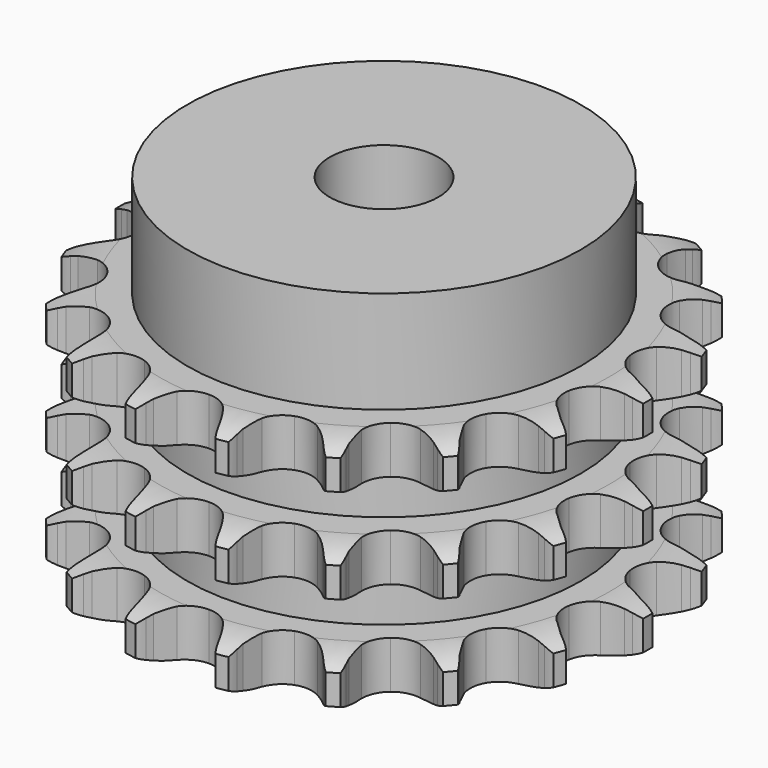
from build123d import *

# Parameters (mm, degrees)
PAD_DEPTH         = 34.9
SKETCH001_R       = 29
PAD001_DEPTH      = 50
SKETCH002_R       = 8
POCKET_DEPTH      = 0.001
POCKET_DEPTH_BACK = 50.001


with BuildPart() as part:
    # Sprocket → Pad (new body)
    with BuildSketch(Plane.XY):
        with BuildLine():
            ThreePointArc((-7.003796, 39.720502), (-6.007744, 38.60389), (-5.269995, 37.302094))
            Line((-5.269995, 37.302094), (-4.86388, 36.365611))
            ThreePointArc((-4.86388, 36.365611), (-4.204525, 35.080808), (-3.384263, 33.892264))
            ThreePointArc((-3.384263, 33.892264), (-1.88001, 32.684973), (0, 32.253818))
            ThreePointArc((0, 32.253818), (1.88001, 32.684973), (3.384263, 33.892264))
            ThreePointArc((3.384263, 33.892264), (4.204525, 35.080808), (4.86388, 36.365611))
            Line((4.86388, 36.365611), (5.269995, 37.302094))
            ThreePointArc((5.269995, 37.302094), (6.007744, 38.60389), (7.003796, 39.720502))
            ThreePointArc((7.003796, 39.720502), (7.557875, 38.33056), (7.805892, 36.854947))
            Line((7.805892, 36.854947), (7.86722, 35.836041))
            ThreePointArc((7.86722, 35.836041), (8.047382, 34.403209), (8.41167, 33.005797))
            ThreePointArc((8.41167, 33.005797), (9.412288, 31.356829), (11.031455, 30.308674))
            ThreePointArc((11.031455, 30.308674), (12.94555, 30.070827), (14.772004, 30.690824))
            Line((14.772004, 30.690824), (17.008323, 32.508952))
            ThreePointArc((17.008323, 32.508952), (17.350777, 32.887562), (17.710243, 33.250058))
            ThreePointArc((17.710243, 33.250058), (18.84874, 34.221021), (20.166628, 34.929624))
            ThreePointArc((20.166628, 34.929624), (20.211903, 33.433998), (19.940274, 31.962549))
            Line((19.940274, 31.962549), (19.649416, 30.984116))
            ThreePointArc((19.649416, 30.984116), (19.328656, 29.576075), (19.193031, 28.138343))
            ThreePointArc((19.193031, 28.138343), (19.569325, 26.246589), (20.732354, 24.707858))
            ThreePointArc((20.732354, 24.707858), (22.449667, 23.829695), (24.378024, 23.787618))
            Line((24.378024, 23.787618), (27.101312, 24.731233))
            ThreePointArc((27.101312, 24.731233), (27.552606, 24.969884), (28.014374, 25.187575))
            ThreePointArc((28.014374, 25.187575), (29.416301, 25.710592), (30.897066, 25.925717))
            ThreePointArc((30.897066, 25.925717), (30.428077, 24.504804), (29.669564, 23.214997))
            Line((29.669564, 23.214997), (29.061603, 22.395049))
            ThreePointArc((29.061603, 22.395049), (28.278609, 21.18163), (27.65943, 19.87699))
            ThreePointArc((27.65943, 19.87699), (27.366012, 17.970623), (27.932625, 16.126909))
            ThreePointArc((27.932625, 16.126909), (29.246022, 14.71435), (31.043693, 14.015274))
            Line((31.043693, 14.015274), (33.925483, 13.970562))
            ThreePointArc((33.925483, 13.970562), (34.431183, 14.040469), (34.939559, 14.087098))
            ThreePointArc((34.939559, 14.087098), (36.435821, 14.099086), (37.900862, 13.794786))
            ThreePointArc((37.900862, 13.794786), (36.974176, 12.619968), (35.820267, 11.667372))
            Line((35.820267, 11.667372), (34.968532, 11.104809))
            ThreePointArc((34.968532, 11.104809), (33.817744, 10.232368), (32.789693, 9.218179))
            ThreePointArc((32.789693, 9.218179), (31.861954, 7.527134), (31.76381, 5.600817))
            ThreePointArc((31.76381, 5.600817), (32.514875, 3.824238), (33.965036, 2.552481))
            Line((33.965036, 2.552481), (36.65774, 1.524836))
            ThreePointArc((36.65774, 1.524836), (37.156852, 1.417567), (37.650517, 1.287509))
            ThreePointArc((37.650517, 1.287509), (39.060644, 0.787023), (40.333255, 0))
            ThreePointArc((40.333255, 0), (39.060644, -0.787023), (37.650517, -1.287509))
            Line((37.650517, -1.287509), (36.65774, -1.524836))
            ThreePointArc((36.65774, -1.524836), (35.27796, -1.951069), (33.965036, -2.552481))
            ThreePointArc((33.965036, -2.552481), (32.514875, -3.824238), (31.76381, -5.600817))
            ThreePointArc((31.76381, -5.600817), (31.861954, -7.527134), (32.789693, -9.218179))
            Line((32.789693, -9.218179), (34.968532, -11.104809))
            ThreePointArc((34.968532, -11.104809), (35.400856, -11.376314), (35.820267, -11.667372))
            ThreePointArc((35.820267, -11.667372), (36.974176, -12.619968), (37.900862, -13.794786))
            ThreePointArc((37.900862, -13.794786), (36.435821, -14.099086), (34.939559, -14.087098))
            Line((34.939559, -14.087098), (33.925483, -13.970562))
            ThreePointArc((33.925483, -13.970562), (32.483134, -13.899178), (31.043693, -14.015274))
            ThreePointArc((31.043693, -14.015274), (29.246022, -14.71435), (27.932625, -16.126909))
            ThreePointArc((27.932625, -16.126909), (27.366012, -17.970623), (27.65943, -19.87699))
            Line((27.65943, -19.87699), (29.061603, -22.395049))
            ThreePointArc((29.061603, -22.395049), (29.374995, -22.798045), (29.669564, -23.214997))
            ThreePointArc((29.669564, -23.214997), (30.428077, -24.504804), (30.897066, -25.925717))
            ThreePointArc((30.897066, -25.925717), (29.416301, -25.710592), (28.014374, -25.187575))
            Line((28.014374, -25.187575), (27.101312, -24.731233))
            ThreePointArc((27.101312, -24.731233), (25.770362, -24.170841), (24.378024, -23.787618))
            ThreePointArc((24.378024, -23.787618), (22.449667, -23.829695), (20.732354, -24.707858))
            ThreePointArc((20.732354, -24.707858), (19.569325, -26.246589), (19.193031, -28.138343))
            Line((19.193031, -28.138343), (19.649416, -30.984116))
            ThreePointArc((19.649416, -30.984116), (19.806075, -31.469994), (19.940274, -31.962549))
            ThreePointArc((19.940274, -31.962549), (20.211903, -33.433998), (20.166628, -34.929624))
            ThreePointArc((20.166628, -34.929624), (18.84874, -34.221021), (17.710243, -33.250058))
            Line((17.710243, -33.250058), (17.008323, -32.508952))
            ThreePointArc((17.008323, -32.508952), (15.949304, -31.527144), (14.772004, -30.690824))
            ThreePointArc((14.772004, -30.690824), (12.94555, -30.070827), (11.031455, -30.308674))
            ThreePointArc((11.031455, -30.308674), (9.412288, -31.356829), (8.41167, -33.005797))
            Line((8.41167, -33.005797), (7.86722, -35.836041))
            ThreePointArc((7.86722, -35.836041), (7.848251, -36.346198), (7.805892, -36.854947))
            ThreePointArc((7.805892, -36.854947), (7.557875, -38.33056), (7.003796, -39.720502))
            ThreePointArc((7.003796, -39.720502), (6.007744, -38.60389), (5.269995, -37.302094))
            Line((5.269995, -37.302094), (4.86388, -36.365611))
            ThreePointArc((4.86388, -36.365611), (4.204525, -35.080808), (3.384263, -33.892264))
            ThreePointArc((3.384263, -33.892264), (1.88001, -32.684973), (0, -32.253818))
            ThreePointArc((0, -32.253818), (-1.88001, -32.684973), (-3.384263, -33.892264))
            Line((-3.384263, -33.892264), (-4.86388, -36.365611))
            ThreePointArc((-4.86388, -36.365611), (-5.056188, -36.838514), (-5.269995, -37.302094))
            ThreePointArc((-5.269995, -37.302094), (-6.007744, -38.60389), (-7.003796, -39.720502))
            ThreePointArc((-7.003796, -39.720502), (-7.557875, -38.33056), (-7.805892, -36.854947))
            Line((-7.805892, -36.854947), (-7.86722, -35.836041))
            ThreePointArc((-7.86722, -35.836041), (-8.047382, -34.403209), (-8.41167, -33.005797))
            ThreePointArc((-8.41167, -33.005797), (-9.412288, -31.356829), (-11.031455, -30.308674))
            ThreePointArc((-11.031455, -30.308674), (-12.94555, -30.070827), (-14.772004, -30.690824))
            Line((-14.772004, -30.690824), (-17.008323, -32.508952))
            ThreePointArc((-17.008323, -32.508952), (-17.350777, -32.887562), (-17.710243, -33.250058))
            ThreePointArc((-17.710243, -33.250058), (-18.84874, -34.221021), (-20.166628, -34.929624))
            ThreePointArc((-20.166628, -34.929624), (-20.211903, -33.433998), (-19.940274, -31.962549))
            Line((-19.940274, -31.962549), (-19.649416, -30.984116))
            ThreePointArc((-19.649416, -30.984116), (-19.328656, -29.576075), (-19.193031, -28.138343))
            ThreePointArc((-19.193031, -28.138343), (-19.569325, -26.246589), (-20.732354, -24.707858))
            ThreePointArc((-20.732354, -24.707858), (-22.449667, -23.829695), (-24.378024, -23.787618))
            Line((-24.378024, -23.787618), (-27.101312, -24.731233))
            ThreePointArc((-27.101312, -24.731233), (-27.552606, -24.969884), (-28.014374, -25.187575))
            ThreePointArc((-28.014374, -25.187575), (-29.416301, -25.710592), (-30.897066, -25.925717))
            ThreePointArc((-30.897066, -25.925717), (-30.428077, -24.504804), (-29.669564, -23.214997))
            Line((-29.669564, -23.214997), (-29.061603, -22.395049))
            ThreePointArc((-29.061603, -22.395049), (-28.278609, -21.18163), (-27.65943, -19.87699))
            ThreePointArc((-27.65943, -19.87699), (-27.366012, -17.970623), (-27.932625, -16.126909))
            ThreePointArc((-27.932625, -16.126909), (-29.246022, -14.71435), (-31.043693, -14.015274))
            Line((-31.043693, -14.015274), (-33.925483, -13.970562))
            ThreePointArc((-33.925483, -13.970562), (-34.431183, -14.040469), (-34.939559, -14.087098))
            ThreePointArc((-34.939559, -14.087098), (-36.435821, -14.099086), (-37.900862, -13.794786))
            ThreePointArc((-37.900862, -13.794786), (-36.974176, -12.619968), (-35.820267, -11.667372))
            Line((-35.820267, -11.667372), (-34.968532, -11.104809))
            ThreePointArc((-34.968532, -11.104809), (-33.817744, -10.232368), (-32.789693, -9.218179))
            ThreePointArc((-32.789693, -9.218179), (-31.861954, -7.527134), (-31.76381, -5.600817))
            ThreePointArc((-31.76381, -5.600817), (-32.514875, -3.824238), (-33.965036, -2.552481))
            Line((-33.965036, -2.552481), (-36.65774, -1.524836))
            ThreePointArc((-36.65774, -1.524836), (-37.156852, -1.417567), (-37.650517, -1.287509))
            ThreePointArc((-37.650517, -1.287509), (-39.060644, -0.787023), (-40.333255, 0))
            ThreePointArc((-40.333255, 0), (-39.060644, 0.787023), (-37.650517, 1.287509))
            Line((-37.650517, 1.287509), (-36.65774, 1.524836))
            ThreePointArc((-36.65774, 1.524836), (-35.27796, 1.951069), (-33.965036, 2.552481))
            ThreePointArc((-33.965036, 2.552481), (-32.514875, 3.824238), (-31.76381, 5.600817))
            ThreePointArc((-31.76381, 5.600817), (-31.861954, 7.527134), (-32.789693, 9.218179))
            Line((-32.789693, 9.218179), (-34.968532, 11.104809))
            ThreePointArc((-34.968532, 11.104809), (-35.400856, 11.376314), (-35.820267, 11.667372))
            ThreePointArc((-35.820267, 11.667372), (-36.974176, 12.619968), (-37.900862, 13.794786))
            ThreePointArc((-37.900862, 13.794786), (-36.435821, 14.099086), (-34.939559, 14.087098))
            Line((-34.939559, 14.087098), (-33.925483, 13.970562))
            ThreePointArc((-33.925483, 13.970562), (-32.483134, 13.899178), (-31.043693, 14.015274))
            ThreePointArc((-31.043693, 14.015274), (-29.246022, 14.71435), (-27.932625, 16.126909))
            ThreePointArc((-27.932625, 16.126909), (-27.366012, 17.970623), (-27.65943, 19.87699))
            Line((-27.65943, 19.87699), (-29.061603, 22.395049))
            ThreePointArc((-29.061603, 22.395049), (-29.374995, 22.798045), (-29.669564, 23.214997))
            ThreePointArc((-29.669564, 23.214997), (-30.428077, 24.504804), (-30.897066, 25.925717))
            ThreePointArc((-30.897066, 25.925717), (-29.416301, 25.710592), (-28.014374, 25.187575))
            Line((-28.014374, 25.187575), (-27.101312, 24.731233))
            ThreePointArc((-27.101312, 24.731233), (-25.770362, 24.170841), (-24.378024, 23.787618))
            ThreePointArc((-24.378024, 23.787618), (-22.449667, 23.829695), (-20.732354, 24.707858))
            ThreePointArc((-20.732354, 24.707858), (-19.569325, 26.246589), (-19.193031, 28.138343))
            Line((-19.193031, 28.138343), (-19.649416, 30.984116))
            ThreePointArc((-19.649416, 30.984116), (-19.806075, 31.469994), (-19.940274, 31.962549))
            ThreePointArc((-19.940274, 31.962549), (-20.211903, 33.433998), (-20.166628, 34.929624))
            ThreePointArc((-20.166628, 34.929624), (-18.84874, 34.221021), (-17.710243, 33.250058))
            Line((-17.710243, 33.250058), (-17.008323, 32.508952))
            ThreePointArc((-17.008323, 32.508952), (-15.949304, 31.527144), (-14.772004, 30.690824))
            ThreePointArc((-14.772004, 30.690824), (-12.94555, 30.070827), (-11.031455, 30.308674))
            ThreePointArc((-11.031455, 30.308674), (-9.412288, 31.356829), (-8.41167, 33.005797))
            Line((-8.41167, 33.005797), (-7.86722, 35.836041))
            ThreePointArc((-7.86722, 35.836041), (-7.848251, 36.346198), (-7.805892, 36.854947))
            ThreePointArc((-7.805892, 36.854947), (-7.557875, 38.33056), (-7.003796, 39.720502))
        make_face()
    extrude(amount=PAD_DEPTH)

    # Sketch → Groove (revolve, cut)
    with BuildSketch(Plane.XZ):
        with BuildLine():
            ThreePointArc((33.233431, 0), (36.14032, 0.329167), (38.9, 1.3))
            Line((38.9, 1.3), (38.9, 5.7))
            ThreePointArc((38.9, 5.7), (36.14032, 6.670833), (33.233431, 7))
            Line((29, 7), (33.233431, 7))
            Line((29, 7), (29, 13.95))
            Line((29, 13.95), (33.233431, 13.95))
            ThreePointArc((33.233431, 13.95), (36.14032, 14.279167), (38.9, 15.25))
            Line((38.9, 19.65), (38.9, 15.25))
            ThreePointArc((38.9, 19.65), (36.14032, 20.620833), (33.233431, 20.95))
            Line((29, 20.95), (33.233431, 20.95))
            Line((29, 27.9), (29, 20.95))
            Line((33.233431, 27.9), (29, 27.9))
            ThreePointArc((33.233431, 27.9), (36.14032, 28.229167), (38.9, 29.2))
            Line((38.9, 29.2), (38.9, 33.6))
            ThreePointArc((38.9, 33.6), (36.14032, 34.570833), (33.233431, 34.9))
            Line((33.233431, 34.9), (48.9, 34.9))
            Line((48.9, 34.9), (48.9, 0))
            Line((33.233431, 0), (48.9, 0))
        make_face()
    revolve(axis=Axis((0, 0, 0), (0, 0, 1)), mode=Mode.SUBTRACT)

    # Sketch001 → Pad001 (join)
    with BuildSketch(Plane.XY):
        Circle(SKETCH001_R)
    extrude(amount=PAD001_DEPTH)

    # Sketch002 → Pocket (cut, two sides)
    with BuildSketch(Plane.XY) as pocket_sk:
        Circle(SKETCH002_R)
    extrude(amount=-POCKET_DEPTH, mode=Mode.SUBTRACT)
    extrude(pocket_sk.sketch, amount=POCKET_DEPTH_BACK, mode=Mode.SUBTRACT)


solid = part.part
